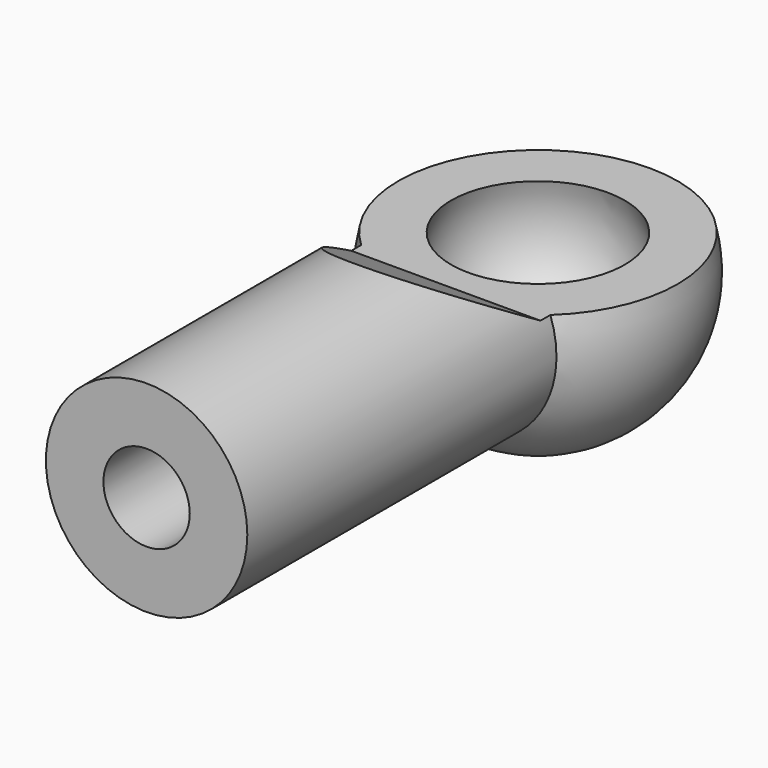
from build123d import *

# Parameters (mm, degrees)
F2_R          = 3.5
F3_DEPTH      = 17
F7_DEPTH      = 6
F7_DEPTH_BACK = 6
F8_R          = 1.5
F9_DEPTH      = 8


with BuildPart() as f1:
    # F0 (on Right) → F1 (revolve)
    with BuildSketch(Plane.YZ):
        with BuildLine():
            Line((0, 5), (0, -5))
            ThreePointArc((0, -5), (5, 0), (0, 5))
        make_face()
    revolve(axis=Axis((0, 0, 0), (0, 0, -1)))

    # F2 (on Front) → F3 (join)
    with BuildSketch(Plane.XZ):
        Circle(F2_R)
    extrude(amount=F3_DEPTH)

    # F4 (on Right) → F5 (revolve, cut)
    with BuildSketch(Plane.YZ):
        with BuildLine():
            Line((0, 3.25), (0, -3.25))
            ThreePointArc((0, -3.25), (3.25, 0), (0, 3.25))
        make_face()
    revolve(axis=Axis((0, 0, 0), (0, 0, -1)), mode=Mode.SUBTRACT)

    # F6 (on Right) → F7 (cut, two sides)
    with BuildSketch(Plane.YZ) as f7_sk:
        Polygon((-4, 1.2), (5.5, 1.2), (5.5, 5.2), (-10.9282032303, 5.2), align=None)
    extrude(amount=-F7_DEPTH, mode=Mode.SUBTRACT)
    extrude(f7_sk.sketch, amount=F7_DEPTH_BACK, mode=Mode.SUBTRACT)

    # F8 (on face) → F9 (cut)
    with BuildSketch(Plane.XZ.offset(17)):
        Circle(F8_R)
    extrude(amount=-F9_DEPTH, mode=Mode.SUBTRACT)


solid = f1.part
